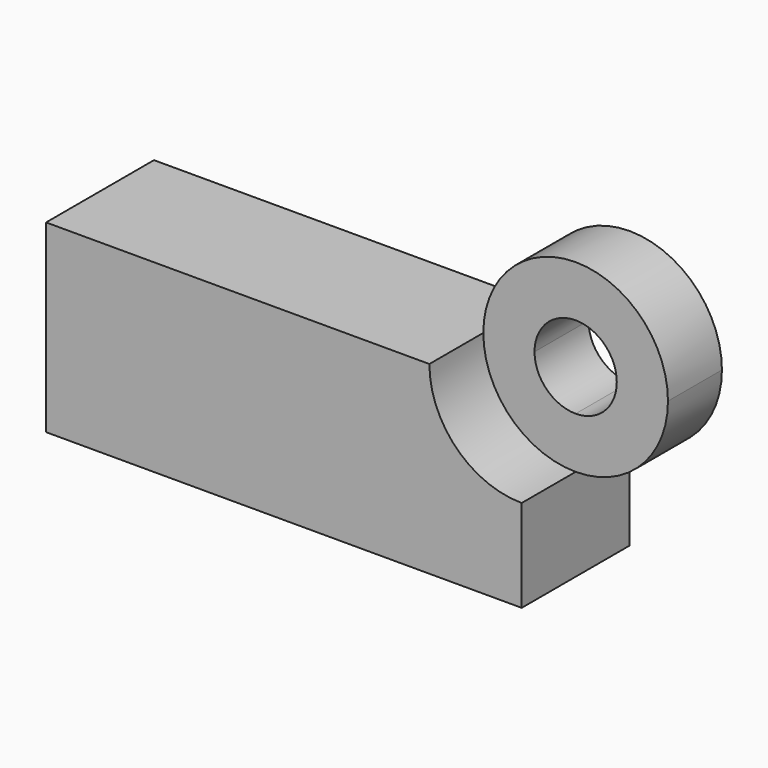
from build123d import *

# Parameters (mm, degrees)
F1_DEPTH = 15
F2_DEPTH = 15
F3_DEPTH = 15


with BuildPart() as f1:
    # F0 (on Front) → F1 (new body)
    with BuildSketch(Plane.XZ):
        with BuildLine():
            Line((-52.9015958309, 20.53822577), (-52.9015958309, -20.53822577))
            Line((-52.9015958309, -20.53822577), (52.9015958309, -20.53822577))
            Line((52.9015958309, -20.53822577), (52.9015958309, 0))
            ThreePointArc((52.9015958309, 0), (38.3788771154, 6.0155070545), (32.3633700609, 20.53822577))
            Line((32.3633700609, 20.53822577), (-52.9015958309, 20.53822577))
        make_face()
    extrude(amount=-F1_DEPTH)

    # F2 (add): a face of the model
    f2_faces = [f1.faces().sort_by_distance(p)[0] for p in [
        (-3.6461449369, 0, -0.9755146466),
    ]]
    extrude(f2_faces, amount=F2_DEPTH)

    # F0 (on Front) → F3 (join)
    with BuildSketch(Plane.XZ):
        with BuildLine():
            Line((52.9015958309, 11.3889886989), (52.9015958309, 0))
            ThreePointArc((52.9015958309, 0), (67.4243145464, 6.0155070545), (73.4398216009, 20.53822577))
            ThreePointArc((73.4398216009, 20.53822577), (52.9015958309, 41.07645154), (32.3633700609, 20.53822577))
            Line((32.3633700609, 20.53822577), (43.7523587598, 20.53822577))
            ThreePointArc((43.7523587598, 20.53822577), (52.9015958309, 29.6874628411), (62.050832902, 20.53822577))
            ThreePointArc((62.050832902, 20.53822577), (59.3710834066, 14.0687381943), (52.9015958309, 11.3889886989))
        make_face()
        with BuildLine():
            ThreePointArc((32.3633700609, 20.53822577), (38.3788771154, 6.0155070545), (52.9015958309, 0))
            Line((52.9015958309, 0), (52.9015958309, 11.3889886989))
            ThreePointArc((52.9015958309, 11.3889886989), (46.4321082553, 14.0687381943), (43.7523587598, 20.53822577))
            Line((43.7523587598, 20.53822577), (32.3633700609, 20.53822577))
        make_face()
    extrude(amount=-F3_DEPTH)


solid = f1.part
